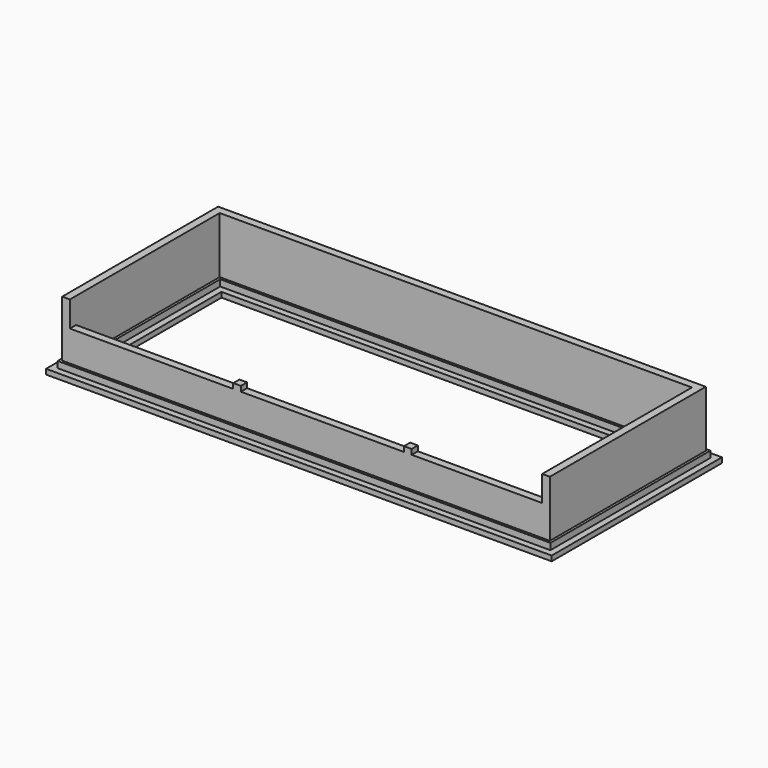
from build123d import *

# Parameters (mm, degrees)
F0_W      = 8860
F0_H      = 3150
F1_DEPTH  = 100
F2_W      = 9610
F2_H      = 3900
F2_W_2    = 9110
F2_H_2    = 3400
F3_DEPTH  = 100
F4_DEPTH  = 25
F6_DEPTH  = 1100
F7_W      = 9210
F7_H      = 150
F8_DEPTH  = 600
F9_W      = 150
F9_H      = 150
F10_DEPTH = 100


with BuildPart() as f1:
    # F0 (on Top) → F1 (new body)
    with BuildSketch(Plane.XY):
        Polygon((-3220, 0), (-2720, 0), (6140, 0), (6640, 0), (6640, 4150), (-3220, 4150), align=None)
        with Locations((1710, 2075)):
            Rectangle(F0_W, F0_H, mode=Mode.SUBTRACT)
    extrude(amount=F1_DEPTH)

    # F2 (on face) → F3 (join)
    with BuildSketch(Plane.XY.offset(100)):
        with Locations((1710, 2075)):
            Rectangle(F2_W, F2_H)
        with Locations((1710, 2075)):
            Rectangle(F2_W_2, F2_H_2, mode=Mode.SUBTRACT)
    extrude(amount=F3_DEPTH)

    # F4 (add): a face of the model
    f4_faces = [f1.faces().sort_by_distance(p)[0] for p in [
        (-2991.2878502778, 2075, 200),
    ]]
    extrude(f4_faces, amount=F4_DEPTH)

    # F5 (on face) → F6 (join)
    with BuildSketch(Plane.XY.offset(225)):
        Polygon((-3045, 3975), (-3045, 175), (-2895, 175), (-2895, 3825), (6315, 3825), (6315, 175), (6465, 175), (6465, 3975), align=None)
    extrude(amount=F6_DEPTH)

    # F7 (on face) → F8 (join)
    with BuildSketch(Plane.XY.offset(225)):
        with Locations((1710, 250)):
            Rectangle(F7_W, F7_H)
    extrude(amount=F8_DEPTH)

    # F9 (on face) → F10 (join)
    with BuildSketch(Plane.XY.offset(825)):
        with Locations((365, 250)):
            Rectangle(F9_W, F9_H)
        with Locations((3695, 250)):
            Rectangle(F9_W, F9_H)
    extrude(amount=F10_DEPTH)


solid = f1.part
